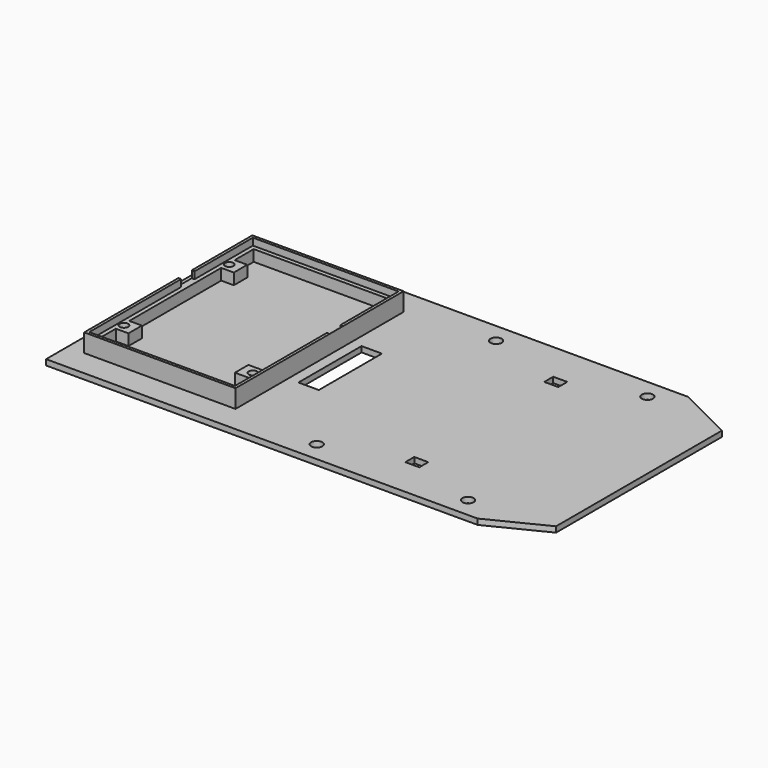
from build123d import *

# Parameters (mm, degrees)
PAD_DEPTH       = 2
SKETCH001_W     = 54
SKETCH001_H     = 75
PAD001_DEPTH    = 4
SKETCH002_W     = 54
SKETCH002_H     = 75
SKETCH002_W_2   = 52
SKETCH002_H_2   = 73
PAD002_DEPTH    = 2.5
SKETCH003_R     = 1.5
POCKET_DEPTH    = 6.001
SKETCH004_W     = 1.028311
SKETCH004_H     = 6
SKETCH004_W_2   = 1.0671
POCKET001_DEPTH = 2.5
SKETCH005_W     = 5
SKETCH005_H     = 4
POCKET002_DEPTH = 2.001
SKETCH006_R     = 2
POCKET003_DEPTH = 2.001
SKETCH007_W     = 7.274784
SKETCH007_H     = 28.1615223689
POCKET004_DEPTH = 5


with BuildPart() as part:
    # Sketch → Pad (new body)
    with BuildSketch(Plane.XY):
        Polygon((-26, 47), (-26, -47), (128, -47), (148, -37), (148, 37), (128, 47), align=None)
    extrude(amount=PAD_DEPTH)

    # Sketch001 → Pad001 (new body)
    with BuildSketch(Plane.XY.offset(2)):
        with Locations((7, 0)):
            Rectangle(SKETCH001_W, SKETCH001_H)
        Polygon((-17.5, 35), (31.5, 35), (31.5, -20.5), (25, -20.5), (25, -26.5), (31.5, -26.5), (31.5, -35), (-17.5, -35), (-17.5, -26.5), (-13, -26.5), (-13, -20.5), (-17.5, -20.5), (-17.5, 20.5), (-13, 20.5), (-13, 26.5), (-17.5, 26.5), align=None, mode=Mode.SUBTRACT)
    extrude(amount=PAD001_DEPTH)

    # Sketch002 → Pad002 (new body)
    with BuildSketch(Plane.XY.offset(6)):
        with Locations((7, 0)):
            Rectangle(SKETCH002_W, SKETCH002_H)
        with Locations((7, 0)):
            Rectangle(SKETCH002_W_2, SKETCH002_H_2, mode=Mode.SUBTRACT)
    extrude(amount=PAD002_DEPTH)

    # Sketch003 → Pocket (cut, through all)
    with BuildSketch(Plane.XY.offset(6)):
        with Locations((-17, 23.5)):
            Circle(SKETCH003_R)
        with Locations((-17, -23.5)):
            Circle(SKETCH003_R)
        with Locations((29, -23.5)):
            Circle(SKETCH003_R)
    extrude(amount=-POCKET_DEPTH, mode=Mode.SUBTRACT)

    # Sketch004 → Pocket001 (cut)
    with BuildSketch(Plane.XY.offset(8.5)):
        with Locations((-19.4858445, 7.5)):
            Rectangle(SKETCH004_W, SKETCH004_H)
        with Locations((33.439625, 7.5)):
            Rectangle(SKETCH004_W_2, SKETCH004_H)
    extrude(amount=-POCKET001_DEPTH, mode=Mode.SUBTRACT)

    # Sketch005 → Pocket002 (cut, through all)
    with BuildSketch(Plane.XY.offset(2)):
        with Locations((93.5, 31)):
            Rectangle(SKETCH005_W, SKETCH005_H)
        with Locations((93.5, -31)):
            Rectangle(SKETCH005_W, SKETCH005_H)
    extrude(amount=-POCKET002_DEPTH, mode=Mode.SUBTRACT)

    # Sketch006 → Pocket003 (cut, through all)
    with BuildSketch(Plane.XY.offset(2)):
        with Locations((119, 40)):
            Circle(SKETCH006_R)
        with Locations((65, 40)):
            Circle(SKETCH006_R)
        with Locations((119, -40)):
            Circle(SKETCH006_R)
        with Locations((65, -40)):
            Circle(SKETCH006_R)
    extrude(amount=-POCKET003_DEPTH, mode=Mode.SUBTRACT)

    # Sketch007 → Pocket004 (cut)
    with BuildSketch(Plane.XY.offset(2)):
        with Locations((41.362608, 0)):
            Rectangle(SKETCH007_W, SKETCH007_H)
    extrude(amount=-POCKET004_DEPTH, mode=Mode.SUBTRACT)


solid = part.part
